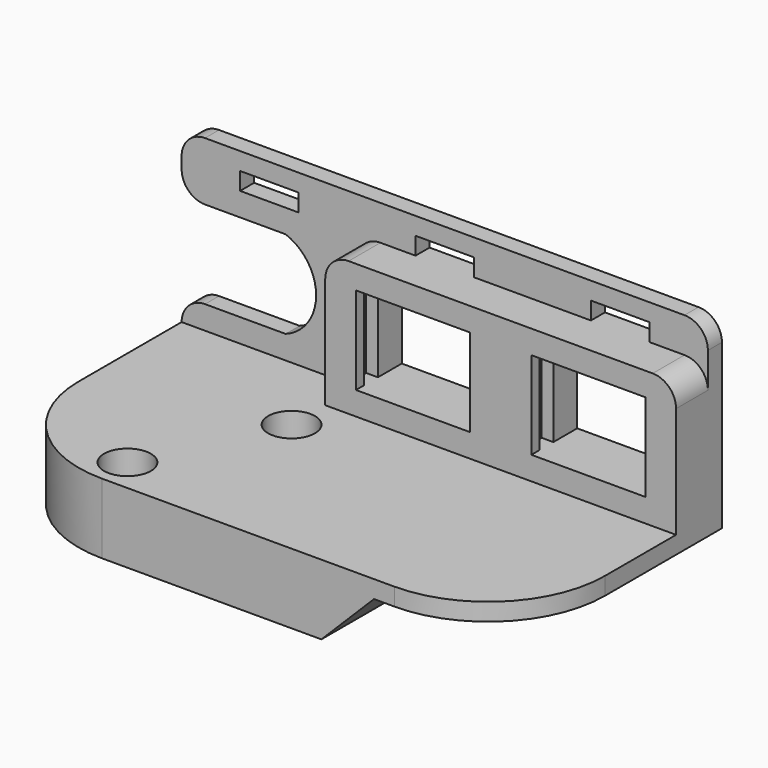
from build123d import *

# Parameters (mm, degrees)
SKETCH_W        = 90
SKETCH_H        = 45
PAD_DEPTH       = 16
POCKET_DEPTH    = 60
PAD001_DEPTH    = 15
POCKET001_DEPTH = 4
PAD002_DEPTH    = 4
POCKET002_DEPTH = 5
SKETCH006_W     = 90
SKETCH006_H     = 3
PAD003_DEPTH    = 6
SKETCH007_W     = 10
SKETCH007_H     = 3
POCKET003_DEPTH = 5
SKETCH008_R     = 1.6
POCKET004_DEPTH = 20
SKETCH009_R     = 4
POCKET005_DEPTH = 8
FILLET_R        = 4
FILLET001_R     = 4
FILLET002_R     = 20
SKETCH010_W     = 18.432236
SKETCH010_H     = 15
POCKET006_DEPTH = 5
FILLET003_R     = 4
CHAMFER_1_SIZE2 = 3
CHAMFER_1_SIZE  = 2
CHAMFER_2_SIZE2 = 3
CHAMFER_2_SIZE  = 2


with BuildPart() as part:
    # Sketch → Pad (new body)
    with BuildSketch(Plane.XY):
        with Locations((15, -5.5)):
            Rectangle(SKETCH_W, SKETCH_H)
    extrude(amount=PAD_DEPTH)

    # Sketch001 (on Face2 of Pad) → Pocket (cut)
    with BuildSketch(Plane.XZ.offset(28)):
        Polygon((60, 0), (60, 9), (36.5, 9), (27.5, 0), align=None)
    extrude(amount=-POCKET_DEPTH, mode=Mode.SUBTRACT)

    # Sketch002 (on Face5 of Pocket) → Pad001 (join)
    with BuildSketch(Plane.XY.offset(16)):
        Polygon((54.75, 7.2), (54.75, 8.9), (56.75, 8.9), (56.75, 11.9), (54.75, 11.9), (54.75, 14.7), (51.55, 14.7), (51.55, 17), (60, 17), (60, 7.2), align=None)
        Polygon((35.25, 7.2), (35.25, 8.9), (33.25, 8.9), (33.25, 11.9), (35.25, 11.9), (35.25, 17), (21.55, 17), (21.55, 14.7), (24.75, 14.7), (24.75, 11.9), (26.75, 11.9), (26.75, 8.9), (24.75, 8.9), (24.75, 7.2), align=None)
        Polygon((5.25, 7.2), (5.25, 8.9), (3.25, 8.9), (3.25, 11.9), (5.25, 11.9), (5.25, 17), (-30, 17), (-30, 14), (0, 14), (0, 7.2), align=None)
    extrude(amount=PAD001_DEPTH)

    # Sketch003 (on Face3 of Pad001) → Pocket001 (cut)
    with BuildSketch(Plane.XY.offset(16)):
        Polygon((-30, -28), (-30, 14), (0, 14), (0, 7.2), (60, 7.2), (60, -28), align=None)
    extrude(amount=-POCKET001_DEPTH, mode=Mode.SUBTRACT)

    # Sketch004 (on Face9 of Pocket001) → Pad002 (join)
    with BuildSketch(Plane.XY.offset(31)):
        Polygon((-30, 17), (60, 17), (60, 7.2), (0, 7.2), (0, 14), (-30, 14), align=None)
    extrude(amount=PAD002_DEPTH)

    # Sketch005 (on Face39 of Pad002) → Pocket002 (cut)
    with BuildSketch(Plane.XZ.offset(-14)):
        with BuildLine():
            ThreePointArc((-12.216118, 16), (-7, 23.5), (-12.216118, 31))
            Line((-12.216118, 31), (-17.783882, 31))
            ThreePointArc((-17.783882, 31), (-23, 23.5), (-17.783882, 16))
            Line((-17.783882, 16), (-12.216118, 16))
        make_face()
    extrude(amount=-POCKET002_DEPTH, mode=Mode.SUBTRACT)

    # Sketch006 (on Face9 of Pocket002) → Pad003 (join)
    with BuildSketch(Plane.XY.offset(35)):
        with Locations((15, 15.5)):
            Rectangle(SKETCH006_W, SKETCH006_H)
    extrude(amount=PAD003_DEPTH)

    # Sketch007 (on Face45 of Pad003) → Pocket003 (cut)
    with BuildSketch(Plane.XZ.offset(-14)):
        with Locations((-15, 36.5)):
            Rectangle(SKETCH007_W, SKETCH007_H)
        with Locations((15, 36.5)):
            Rectangle(SKETCH007_W, SKETCH007_H)
        with Locations((45, 36.5)):
            Rectangle(SKETCH007_W, SKETCH007_H)
    extrude(amount=-POCKET003_DEPTH, mode=Mode.SUBTRACT)

    # Sketch008 (on Face43 of Pocket003) → Pocket004 (cut)
    with BuildSketch(Plane.XY.offset(12)):
        Circle(SKETCH008_R)
        with Locations((-10.3, -22.2)):
            Circle(SKETCH008_R)
    extrude(amount=-POCKET004_DEPTH, mode=Mode.SUBTRACT)

    # Sketch009 (on Face44 of Pocket004) → Pocket005 (cut)
    with BuildSketch(Plane.XY.offset(12)):
        with Locations((-10.3, -22.2)):
            Circle(SKETCH009_R)
        Circle(SKETCH009_R)
    extrude(amount=-POCKET005_DEPTH, mode=Mode.SUBTRACT)

    # Fillet
    fillet_edges = [part.edges().sort_by_distance(p)[0] for p in [
        (-30, 15.5, 41),
        (60, 15.5, 41),
    ]]
    fillet(fillet_edges, radius=FILLET_R)

    # Fillet001
    fillet001_edges = [part.edges().sort_by_distance(p)[0] for p in [
        (60, 10.6, 35),
        (0, 10.6, 35),
    ]]
    fillet(fillet001_edges, radius=FILLET001_R)

    # Fillet002
    fillet002_edges = [part.edges().sort_by_distance(p)[0] for p in [
        (-30, -28, 6),
        (60, -28, 10.5),
    ]]
    fillet(fillet002_edges, radius=FILLET002_R)

    # Sketch010 (on Face8 of Fillet002) → Pocket006 (cut)
    with BuildSketch(Plane.XZ.offset(-14)):
        with Locations((-27, 23.5)):
            Rectangle(SKETCH010_W, SKETCH010_H)
    extrude(amount=-POCKET006_DEPTH, mode=Mode.SUBTRACT)

    # Fillet003
    fillet003_edges = [part.edges().sort_by_distance(p)[0] for p in [
        (-30, 15.5, 31),
        (-30, 15.5, 16),
    ]]
    fillet(fillet003_edges, radius=FILLET003_R)

    # Chamfer 1
    chamfer_1_edges = [part.edges().sort_by_distance(p)[0] for p in [
        (21.55, 14.7, 23.5),
    ]]
    chamfer_1_side = part.faces().sort_by_distance((21.55, 15.85, 23.5))[0]
    chamfer(chamfer_1_edges, length=CHAMFER_1_SIZE, length2=CHAMFER_1_SIZE2, reference=chamfer_1_side)

    # Chamfer 2
    chamfer_2_edges = [part.edges().sort_by_distance(p)[0] for p in [
        (51.55, 14.7, 23.5),
    ]]
    chamfer_2_side = part.faces().sort_by_distance((51.55, 15.85, 23.5))[0]
    chamfer(chamfer_2_edges, length=CHAMFER_2_SIZE, length2=CHAMFER_2_SIZE2, reference=chamfer_2_side)


solid = part.part
